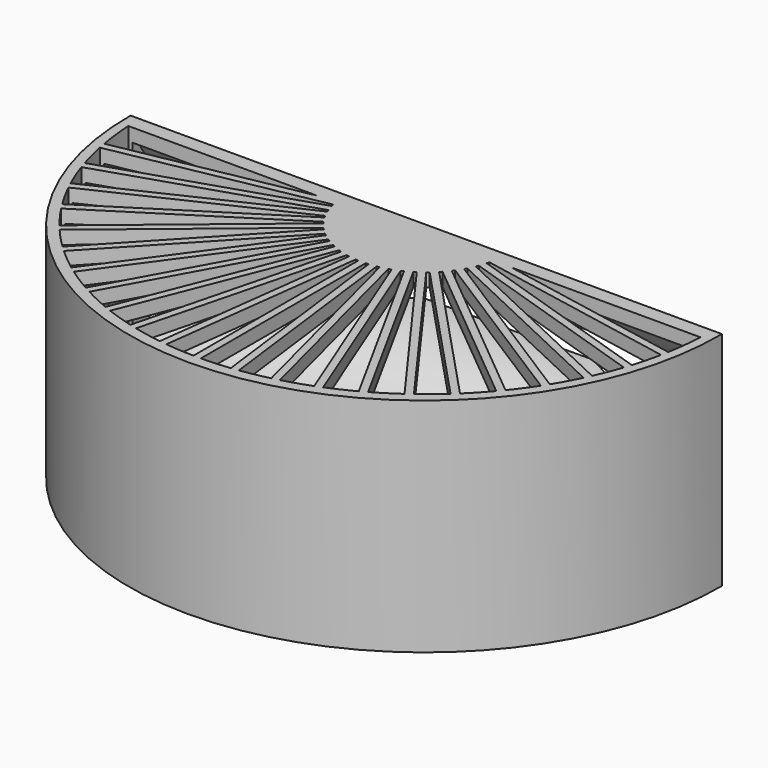
from build123d import *

# Parameters (mm, degrees)
F1_DEPTH  = 150
F4_DEPTH  = 400.001
F5_W      = 399.9912363047
F5_H      = 150
F6_DEPTH  = 3
F7_DEPTH  = 150
F8_T      = -9
F10_DEPTH = 150


with BuildPart() as f1:
    # F0 (on Top) → F1 (new body)
    with BuildSketch(Plane.XY):
        Polygon((0, 72.3537786756), (0, 0), (400, 0), (399.5035362736, 74.9983568071), align=None)
        with BuildLine():
            Line((400, 0), (0, 0))
            ThreePointArc((0, 0), (200, -201.3283142203), (400, 0))
        make_face()
    extrude(amount=F1_DEPTH)

    # F3 (on face) → F4 (cut, through all)
    with BuildSketch(Plane(origin=(0, 0, 0), x_dir=(0, -1, 0), z_dir=(-1, 0, 0))):
        with BuildLine():
            Line((-72.3537786756, 150), (-72.3537786756, 100))
            ThreePointArc((-72.3537786756, 100), (-28.8078976896, 114.3365121845), (0, 150))
            Line((0, 150), (-72.3537786756, 150))
        make_face()
        with BuildLine():
            ThreePointArc((0, 0), (-28.8078973874, 35.6634882529), (-72.3537786756, 50))
            Line((-72.3537786756, 50), (-72.3537786756, 0))
            Line((-72.3537786756, 0), (0, 0))
        make_face()
    extrude(amount=-F4_DEPTH, mode=Mode.SUBTRACT)

    # F5 (on face) → F6 (cut)
    with BuildSketch(Plane(origin=(-0.4789365277, 72.350608278, 0), x_dir=(-0.9999780908, -0.0066195164, 0), z_dir=(-0.0066195164, 0.9999780908, 0))):
        with Locations((-199.9956181523, 75)):
            Rectangle(F5_W, F5_H)
    extrude(amount=-F6_DEPTH, mode=Mode.SUBTRACT)

    # F2 (on face) → F7 (cut, through all)
    with BuildSketch(Plane.XY.offset(150)):
        Polygon((399.5035362736, 74.9983568071), (249.7506726749, 74.0070435589), (400, 0), align=None)
        Polygon((0, 72.3537786756), (0, 0), (149.9967136142, 73.3467061283), align=None)
    extrude(amount=-F7_DEPTH, mode=Mode.SUBTRACT)

    # F8
    f8_openings = [f1.faces().sort_by_distance(p)[0] for p in [
        (199.754565, 70.676021, 75),
        (58.37395, 28.544205, 75),
        (341.484148, 28.82266, 75),
    ]]
    offset(amount=F8_T, openings=f8_openings)

    # F9 (on face) → F10 (cut, through all)
    with BuildSketch(Plane.XY.offset(150)):
        with BuildLine():
            ThreePointArc((390.7600897625, -33.844352928), (392.4900505779, -21.9643461051), (393.4808829609, -10))
            Line((393.4808829609, -10), (279.9769937992, -10))
            Line((279.9769937992, -10), (265.7636143418, -10))
            Line((265.7636143418, -10), (390.7600897625, -33.844352928))
        make_face()
        with BuildLine():
            Line((134.1664992141, -10.0133315522), (6.5215117802, -10.0462265305))
            ThreePointArc((6.5215117802, -10.0462265305), (7.512574677, -21.9873409907), (9.2399102374, -33.8443529279))
            Line((9.239910237, -33.844352928), (134.1664992141, -10.0133315522))
        make_face()
        with BuildLine():
            Line((147.1244857548, -12.6316241603), (10.1768168099, -38.7557891815))
            ThreePointArc((10.1768168104, -38.7557891815), (12.3475370853, -48.180963392), (14.9859327128, -57.4860589812))
            Line((14.9859327124, -57.4860589813), (147.5795023071, -14.4037966262))
            ThreePointArc((147.5795023071, -14.4037966262), (147.3445379725, -13.5196247837), (147.1244857548, -12.6316241603))
        make_face()
        with BuildLine():
            Line((149.124587279, -19.1590792076), (16.5310176843, -62.2413415627))
            ThreePointArc((16.5310176847, -62.2413415626), (19.8659087426, -71.3201320681), (23.6497375514, -80.2211755439))
            Line((23.649737551, -80.221175544), (149.7981279954, -20.8602488685))
            ThreePointArc((149.7981279954, -20.8602488685), (149.4542003087, -20.0124978248), (149.124587279, -19.1590792076))
        make_face()
        with BuildLine():
            Line((151.9270244532, -25.3843841308), (25.7786340088, -84.7453108063))
            ThreePointArc((25.7786340092, -84.7453108061), (30.225102626, -93.3345396569), (35.0946913753, -101.6911562464))
            Line((35.094691375, -101.6911562466), (152.8084671944, -26.9877225248))
            ThreePointArc((152.8084671944, -26.9877225248), (152.3610001007, -26.1897618205), (151.9270244532, -25.3843841308))
        make_face()
        with BuildLine():
            Line((155.4876011693, -31.2093621523), (37.7738253499, -105.9127958741))
            ThreePointArc((37.7738253502, -105.9127958738), (43.2617480595, -113.8770058), (49.1403004259, -121.5574066675))
            Line((49.1403004256, -121.5574066678), (156.5630450566, -32.6895836752))
            ThreePointArc((156.5630450566, -32.6895836752), (156.0190953792, -31.9539976271), (155.4876011693, -31.2093621523))
        make_face()
        with BuildLine():
            Line((159.7501650053, -36.5421498891), (52.3274203744, -125.4099728816))
            ThreePointArc((52.3274203746, -125.4099728814), (58.770249357, -132.6235635347), (65.565057058, -139.5066241707))
            Line((65.5650570578, -139.5066241709), (161.0026496462, -37.8759105633))
            ThreePointArc((161.0026496462, -37.8759105633), (160.3707957965, -37.2142998029), (159.7501650053, -36.5421498891))
        make_face()
        with BuildLine():
            Line((164.6474927833, -41.2986460929), (69.2099001949, -142.9293597005))
            ThreePointArc((69.2099001951, -142.9293597003), (76.5060281888, -149.2785684471), (84.1099330478, -155.2557388734))
            Line((84.1099330476, -155.2557388737), (166.0572657467, -42.4649117158))
            ThreePointArc((166.0572657467, -42.4649117158), (165.3474724375, -41.8877102399), (164.6474927833, -41.2986460929))
        make_face()
        with BuildLine():
            Line((170.1023507186, -45.4038379773), (88.1550180195, -158.1946651351))
            ThreePointArc((88.1550180197, -158.1946651349), (96.1893807277, -163.5793611603), (104.4824646228, -168.5563778289))
            Line((104.4824646227, -168.5563778291), (171.6471790429, -46.3842158432))
            ThreePointArc((171.6471790429, -46.3842158432), (170.8706401385, -45.900526464), (170.1023507186, -45.4038379773))
        make_face()
        with BuildLine():
            Line((176.0287124431, -48.7929842137), (108.863998023, -170.9651461996))
            ThreePointArc((108.8639980231, -170.9651461994), (117.509888746, -175.3004096305), (126.3613647901, -179.1987820153))
            Line((126.3613647901, -179.1987820154), (177.6842332627, -49.5720131782))
            ThreePointArc((177.6842332627, -49.5720131782), (176.8531952456, -49.1894639661), (176.0287124431, -48.7929842137))
        make_face()
        with BuildLine():
            Line((182.3331156921, -51.4126359417), (131.0102472196, -181.0394047789))
            ThreePointArc((131.0102472196, -181.0394047787), (140.131315096, -184.2568659214), (149.4015902243, -187.0151143611))
            Line((149.4015902243, -187.0151143612), (184.0732204547, -51.9780302525))
            ThreePointArc((184.0732204547, -51.9780302525), (183.2007892908, -51.7026542372), (182.3331156921, -51.4126359417))
        make_face()
        with BuildLine():
            Line((188.9161362604, -53.2214796884), (154.24450603, -188.2585637971))
            ThreePointArc((154.24450603, -188.258563797), (163.6969063707, -190.307481367), (173.2397828066, -191.8821066361))
            Line((173.2397828066, -191.8821066361), (190.7133824744, -53.5643227396))
            ThreePointArc((190.7133824744, -53.5643227396), (189.8133169244, -53.4004627652), (188.9161362604, -53.2214796884))
        make_face()
        with BuildLine():
            Line((195.673955981, -54.1909889074), (178.2003563134, -192.508772804))
            ThreePointArc((178.2003563134, -192.5087728039), (187.8350191184, -193.3568341473), (197.5, -193.7230034645))
            Line((197.5, -193.7230034645), (197.5, -54.3058738593))
            ThreePointArc((197.5, -54.3058738593), (196.5864946352, -54.2561140955), (195.673955981, -54.1909889074))
        make_face()
        with BuildLine():
            ThreePointArc((202.5, -193.7230034645), (212.1649808813, -193.3568341473), (221.7996436862, -192.5087728039))
            Line((221.7996436862, -192.5087728039), (204.326044019, -54.1909889074))
            ThreePointArc((204.326044019, -54.1909889074), (203.4135053648, -54.2561140955), (202.5, -54.3058738593))
            Line((202.5, -54.3058738593), (202.5, -193.7230034645))
        make_face()
        with BuildLine():
            ThreePointArc((226.7602171929, -191.8821066361), (236.3030936289, -190.3074813671), (245.7554939695, -188.2585637971))
            Line((245.7554939695, -188.2585637971), (211.0838637396, -53.2214796884))
            ThreePointArc((211.0838637396, -53.2214796884), (210.1866830756, -53.4004627652), (209.2866175256, -53.5643227396))
            Line((209.2866175256, -53.5643227396), (226.7602171929, -191.8821066361))
        make_face()
        with BuildLine():
            ThreePointArc((250.5984097753, -187.0151143612), (259.8686849036, -184.2568659216), (268.98975278, -181.0394047789))
            Line((268.98975278, -181.0394047789), (217.6668843079, -51.4126359417))
            ThreePointArc((217.6668843079, -51.4126359417), (216.7992107092, -51.7026542372), (215.9267795453, -51.9780302525))
            Line((215.9267795453, -51.9780302525), (250.5984097753, -187.0151143612))
        make_face()
        with BuildLine():
            ThreePointArc((273.6386352095, -179.1987820154), (282.4901112536, -175.3004096307), (291.1360019766, -170.9651461996))
            Line((291.1360019766, -170.9651461996), (223.9712875569, -48.7929842137))
            ThreePointArc((223.9712875569, -48.7929842137), (223.1468047544, -49.1894639661), (222.3157667373, -49.5720131782))
            Line((222.3157667373, -49.5720131782), (273.6386352095, -179.1987820154))
        make_face()
        with BuildLine():
            ThreePointArc((295.5175353769, -168.5563778291), (303.810619272, -163.5793611605), (311.84498198, -158.1946651351))
            Line((311.84498198, -158.1946651351), (229.8976492814, -45.4038379773))
            ThreePointArc((229.8976492814, -45.4038379773), (229.1293598615, -45.900526464), (228.3528209571, -46.3842158432))
            Line((228.3528209571, -46.3842158432), (295.5175353769, -168.5563778291))
        make_face()
        with BuildLine():
            ThreePointArc((315.8900669519, -155.2557388737), (323.493971811, -149.2785684473), (330.7900998047, -142.9293597005))
            Line((330.7900998047, -142.9293597005), (235.3525072167, -41.2986460929))
            ThreePointArc((235.3525072167, -41.2986460929), (234.6525275625, -41.8877102399), (233.9427342533, -42.4649117158))
            Line((233.9427342533, -42.4649117158), (315.8900669519, -155.2557388737))
        make_face()
        with BuildLine():
            ThreePointArc((334.4349429418, -139.5066241709), (341.2297506427, -132.623563535), (347.6725796252, -125.4099728816))
            Line((347.6725796252, -125.4099728816), (240.2498349947, -36.5421498891))
            ThreePointArc((240.2498349947, -36.5421498891), (239.6292042035, -37.2142998029), (238.9973503538, -37.8759105633))
            Line((238.9973503538, -37.8759105633), (334.4349429418, -139.5066241709))
        make_face()
        with BuildLine():
            ThreePointArc((350.8596995739, -121.5574066678), (356.7382519403, -113.8770058002), (362.2261746497, -105.912795874))
            Line((362.2261746497, -105.912795874), (244.5123988307, -31.2093621523))
            ThreePointArc((244.5123988307, -31.2093621523), (243.9809046208, -31.9539976271), (243.4369549434, -32.6895836752))
            Line((243.4369549434, -32.6895836752), (350.8596995739, -121.5574066678))
        make_face()
        with BuildLine():
            ThreePointArc((364.9053086245, -101.6911562466), (369.7748973739, -93.3345396571), (374.2213659907, -84.7453108063))
            Line((374.2213659907, -84.7453108063), (248.0729755468, -25.3843841308))
            ThreePointArc((248.0729755468, -25.3843841308), (247.6389998993, -26.1897618205), (247.1915328056, -26.9877225248))
            Line((247.1915328056, -26.9877225248), (364.9053086245, -101.6911562466))
        make_face()
        with BuildLine():
            ThreePointArc((376.3502624485, -80.221175544), (380.1340912573, -71.3201320683), (383.4689823153, -62.2413415627))
            Line((383.4689823153, -62.2413415627), (250.875412721, -19.1590792076))
            ThreePointArc((250.875412721, -19.1590792076), (250.5457996913, -20.0124978248), (250.2018720046, -20.8602488685))
            Line((250.2018720046, -20.8602488685), (376.3502624485, -80.221175544))
        make_face()
        with BuildLine():
            ThreePointArc((385.0140672871, -57.4860589813), (387.6524629146, -48.1809633921), (389.8231831896, -38.7557891815))
            Line((389.8231831896, -38.7557891815), (252.8755142452, -12.6316241603))
            ThreePointArc((252.8755142452, -12.6316241603), (252.6554620275, -13.5196247837), (252.4204976929, -14.4037966262))
            Line((252.4204976929, -14.4037966262), (385.0140672871, -57.4860589813))
        make_face()
    extrude(amount=-F10_DEPTH, mode=Mode.SUBTRACT)


solid = f1.part
